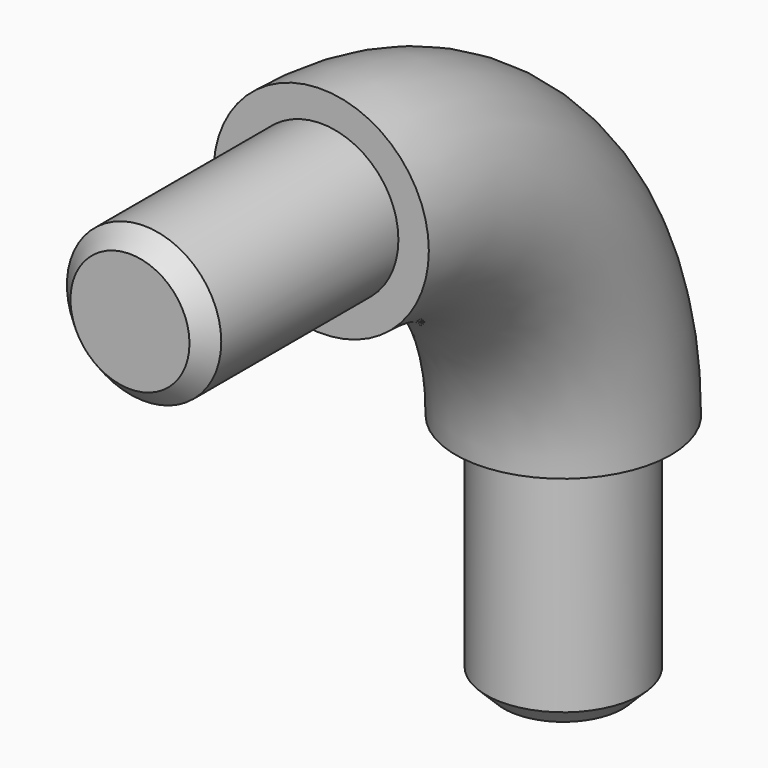
from build123d import *

# Parameters (mm, degrees)
F1_R      = 10.668
F3_R      = 7.8994
F4_DEPTH  = 23.6982
F5_R      = 7.8994
F6_DEPTH  = 23.6982
F7_SIZE   = 2
F8_R      = 7.8994
F8_R_2    = 7.6494
F9_DEPTH  = 23.6982
F10_R     = 7.8994
F10_R_2   = 7.6494
F11_DEPTH = 23.6982


with BuildPart() as f2:
    # F2: sweep along a path in F0
    with BuildLine(Plane.YZ) as f2_path:
        ThreePointArc((0, 0), (-8.7867965644, 21.2132034356), (-30, 30))
    # F1 (on Top) → F2 (sweep)
    with BuildSketch(Plane.XY):
        Circle(F1_R)
    sweep(path=f2_path.line)

    # F3 (on face) → F4 (join)
    with BuildSketch(Plane(origin=(0, 0, 0), x_dir=(1, 0, 0), z_dir=(0, 0, -1))):
        Circle(F3_R)
    extrude(amount=F4_DEPTH)

    # F5 (on face) → F6 (join)
    with BuildSketch(Plane.XZ.offset(30)):
        with Locations((0, 30)):
            Circle(F5_R)
    extrude(amount=F6_DEPTH)

    # F7
    f7_edges = [f2.edges().sort_by_distance(p)[0] for p in [
        (-7.8994, 0, -23.6982),
        (-7.8994, -53.6982, 30),
    ]]
    chamfer(f7_edges, length=F7_SIZE)

    # F8 (on face) → F9 (cut, through all)
    with BuildSketch(Plane(origin=(0, 0, -23.6982), x_dir=(1, 0, 0), z_dir=(0, 0, -1))):
        Circle(F8_R)
        Circle(F8_R_2, mode=Mode.SUBTRACT)
    extrude(amount=-F9_DEPTH, mode=Mode.SUBTRACT)

    # F10 (on face) → F11 (cut, through all)
    with BuildSketch(Plane.XZ.offset(53.6982)):
        with Locations((0, 30)):
            Circle(F10_R)
        with Locations((0, 30)):
            Circle(F10_R_2, mode=Mode.SUBTRACT)
    extrude(amount=-F11_DEPTH, mode=Mode.SUBTRACT)


solid = f2.part
